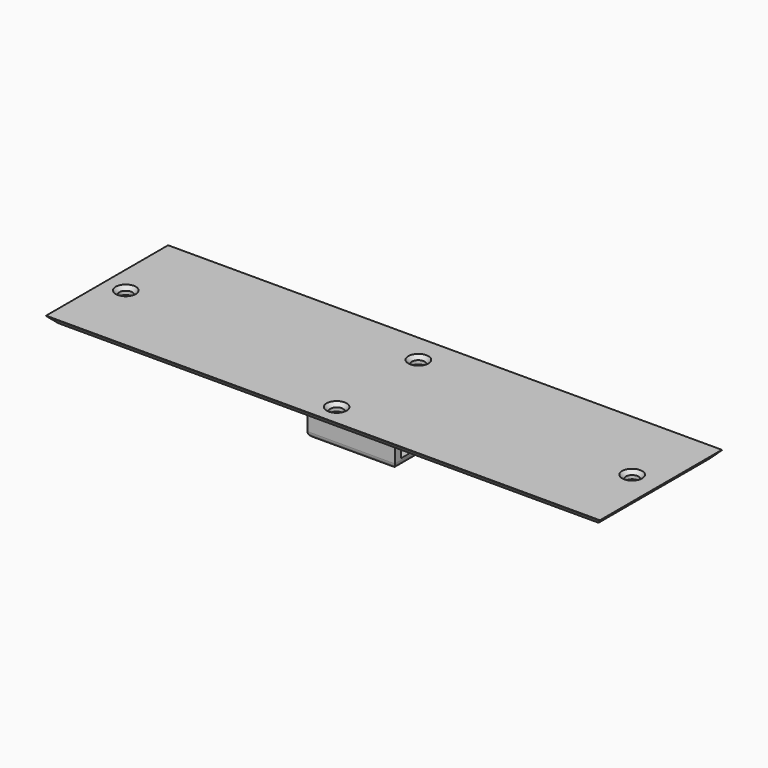
from build123d import *

# Parameters (mm, degrees)
SKETCH_W           = 151.8
SKETCH_H           = 41.8
PAD_DEPTH          = 2
CHAMFER_SIZE       = 1.9
SKETCH001_W        = 2
SKETCH001_H        = 2
PAD001_DEPTH       = 8.6
SKETCH002_W        = 15.5
SKETCH002_H        = 2
POCKET_DEPTH       = 2
SKETCH003_W        = 24
SKETCH003_H        = 19.5
PAD002_DEPTH       = 2
PAD003_START       = -0.75
SKETCH004_W        = 8
SKETCH004_H        = 0.6
PAD003_DEPTH       = 0.5
CHAMFER001_1_ANGLE = 53
CHAMFER001_1_SIZE  = 0.55
CHAMFER001_2_ANGLE = 53
CHAMFER001_2_SIZE  = 0.55
FILLET_R           = 1
FILLET001_R        = 1
SKETCH005_R        = 1.75
POCKET001_DEPTH    = 3
CHAMFER002_SIZE    = 1
SKETCH006_W        = 15.5
SKETCH006_H        = 8.6
POCKET002_DEPTH    = 5
SKETCH007_W        = 20
SKETCH007_H        = 15.5
POCKET003_DEPTH    = 5
SKETCH008_W        = 26
SKETCH008_H        = 21.5
POCKET004_DEPTH    = 10.6
SKETCH009_W        = 24
SKETCH009_H        = 19.5
SKETCH009_W_2      = 20
SKETCH009_H_2      = 15.5
PAD004_DEPTH       = 10.6
SKETCH010_W        = 15.5
SKETCH010_H        = 8.6
POCKET005_DEPTH    = 5
SKETCH011_W        = 15.5
SKETCH011_H        = 2
POCKET006_DEPTH    = 5
FILLET002_R        = 1.5


with BuildPart() as part:
    # Sketch → Pad (new body)
    with BuildSketch(Plane.XY):
        Rectangle(SKETCH_W, SKETCH_H)
    extrude(amount=PAD_DEPTH)

    # Chamfer
    chamfer_edges = [part.edges().sort_by_distance(p)[0] for p in [
        (0, -20.9, 0),
        (-75.9, 0, 0),
        (0, 20.9, 0),
        (75.9, 0, 0),
    ]]
    chamfer(chamfer_edges, length=CHAMFER_SIZE)

    # Sketch001 (on Face8 of Chamfer) → Pad001 (join)
    with BuildSketch(Plane(origin=(0, 0, 0), x_dir=(1, 0, 0), z_dir=(0, 0, -1))):
        Polygon((-11, 7.75), (-9, 7.75), (-9, 9.75), (-13, 9.75), (-13, -9.75), (-9, -9.75), (-9, -7.75), (-11, -7.75), align=None)
        with Locations((10, 8.75)):
            Rectangle(SKETCH001_W, SKETCH001_H)
        with Locations((10, -8.75)):
            Rectangle(SKETCH001_W, SKETCH001_H)
    extrude(amount=PAD001_DEPTH)

    # Sketch002 (on Face19 of Pad001) → Pocket (cut)
    with BuildSketch(Plane(origin=(-13, 0, 0), x_dir=(0, -1, 0), z_dir=(-1, 0, 0))):
        with Locations((0, -1)):
            Rectangle(SKETCH002_W, SKETCH002_H)
    extrude(amount=-POCKET_DEPTH, mode=Mode.SUBTRACT)

    # Sketch003 (on Face31 of Pocket) → Pad002 (join)
    with BuildSketch(Plane(origin=(0, 0, -8.6), x_dir=(1, 0, 0), z_dir=(0, 0, -1))):
        with Locations((-1, 0)):
            Rectangle(SKETCH003_W, SKETCH003_H)
        Polygon((-11, 7.75), (-1.5, 0), (-11, -7.75), align=None, mode=Mode.SUBTRACT)
        Polygon((9, 7.75), (1.5, 0), (9, -7.75), align=None, mode=Mode.SUBTRACT)
        Polygon((7, -7.75), (0, -1.5), (-9, -7.75), align=None, mode=Mode.SUBTRACT)
        Polygon((-9, 7.75), (0, 1.5), (7, 7.75), align=None, mode=Mode.SUBTRACT)
    extrude(amount=PAD002_DEPTH)

    # Sketch004 (on Face34 of Pad002) → Pad003 (join)
    with BuildSketch(Plane.YZ.offset(11).offset(PAD003_START)):
        with Locations((0, -8.3)):
            Rectangle(SKETCH004_W, SKETCH004_H)
    extrude(amount=-PAD003_DEPTH)

    # Chamfer001 1
    chamfer001_1_edges = [part.edges().sort_by_distance(p)[0] for p in [
        (10.25, 0, -8.6),
    ]]
    chamfer001_1_side = part.faces().sort_by_distance((10.25, 0, -8.3))[0]
    chamfer(chamfer001_1_edges, length=CHAMFER001_1_SIZE, angle=CHAMFER001_1_ANGLE, reference=chamfer001_1_side)

    # Chamfer001 2
    chamfer001_2_edges = [part.edges().sort_by_distance(p)[0] for p in [
        (9.75, 0, -8.6),
    ]]
    chamfer001_2_side = part.faces().sort_by_distance((9.75, 0, -8.3))[0]
    chamfer(chamfer001_2_edges, length=CHAMFER001_2_SIZE, angle=CHAMFER001_2_ANGLE, reference=chamfer001_2_side)

    # Fillet
    fillet_edges = [part.edges().sort_by_distance(p)[0] for p in [
        (10, -9.75, 0),
        (11, -8.75, 0),
        (9, -8.75, 0),
        (9, 8.75, 0),
        (10, 9.75, 0),
        (11, 8.75, 0),
        (-11, -9.75, 0),
        (-9, -8.75, 0),
        (-13, -8.75, 0),
        (-13, 8.75, 0),
        (-11, 9.75, 0),
        (-9, 8.75, 0),
        (11, -9.75, -5.3),
        (11, 9.75, -5.3),
        (-13, 9.75, -5.3),
        (-13, -9.75, -5.3),
    ]]
    fillet(fillet_edges, radius=FILLET_R)

    # Fillet001
    fillet001_edges = [part.edges().sort_by_distance(p)[0] for p in [
        (10.707107, -9.457107, -10.6),
    ]]
    fillet(fillet001_edges, radius=FILLET001_R)

    # Sketch005 (on Face73 of Fillet001) → Pocket001 (cut)
    with BuildSketch(Plane.XY.offset(2)):
        with Locations((-69.9, -1.1)):
            Circle(SKETCH005_R)
        with Locations((68.1, -0.1)):
            Circle(SKETCH005_R)
        with Locations((-0.9, -15.1)):
            Circle(SKETCH005_R)
        with Locations((-0.9, 12.9)):
            Circle(SKETCH005_R)
    extrude(amount=-POCKET001_DEPTH, mode=Mode.SUBTRACT)

    # Chamfer002
    chamfer002_edges = [part.edges().sort_by_distance(p)[0] for p in [
        (-2.65, 12.9, 2),
        (-71.65, -1.1, 2),
        (-2.65, -15.1, 2),
        (66.35, -0.1, 2),
    ]]
    chamfer(chamfer002_edges, length=CHAMFER002_SIZE)

    # Sketch006 (on Face46 of Chamfer002) → Pocket002 (cut)
    with BuildSketch(Plane.YZ.offset(11)):
        with Locations((0, -4.3)):
            Rectangle(SKETCH006_W, SKETCH006_H)
    extrude(amount=-POCKET002_DEPTH, mode=Mode.SUBTRACT)

    # Sketch007 (on Face59 of Pocket002) → Pocket003 (cut)
    with BuildSketch(Plane(origin=(0, 0, -10.6), x_dir=(1, 0, 0), z_dir=(0, 0, -1))):
        with Locations((-1, 0)):
            Rectangle(SKETCH007_W, SKETCH007_H)
    extrude(amount=-POCKET003_DEPTH, mode=Mode.SUBTRACT)

    # Sketch008 (on Face58 of Pocket003) → Pocket004 (cut)
    with BuildSketch(Plane(origin=(0, 0, -10.6), x_dir=(1, 0, 0), z_dir=(0, 0, -1))):
        with Locations((-1, 0)):
            Rectangle(SKETCH008_W, SKETCH008_H)
    extrude(amount=-POCKET004_DEPTH, mode=Mode.SUBTRACT)

    # Sketch009 (on Face18 of Pocket004) → Pad004 (join)
    with BuildSketch(Plane(origin=(0, 0, 0), x_dir=(1, 0, 0), z_dir=(0, 0, -1))):
        with Locations((0, 1.5)):
            Rectangle(SKETCH009_W, SKETCH009_H)
        with Locations((0, 1.5)):
            Rectangle(SKETCH009_W_2, SKETCH009_H_2, mode=Mode.SUBTRACT)
    extrude(amount=PAD004_DEPTH)

    # Sketch010 (on Face11 of Pad004) → Pocket005 (cut)
    with BuildSketch(Plane.YZ.offset(12)):
        with Locations((-1.5, -4.3)):
            Rectangle(SKETCH010_W, SKETCH010_H)
    extrude(amount=-POCKET005_DEPTH, mode=Mode.SUBTRACT)

    # Sketch011 (on Face31 of Pocket005) → Pocket006 (cut)
    with BuildSketch(Plane.YZ.offset(-10)):
        with Locations((-1.5, -1)):
            Rectangle(SKETCH011_W, SKETCH011_H)
    extrude(amount=-POCKET006_DEPTH, mode=Mode.SUBTRACT)

    # Fillet002
    fillet002_edges = [part.edges().sort_by_distance(p)[0] for p in [
        (12, -10.25, 0),
        (0, -11.25, 0),
        (-12, -10.25, 0),
        (0, 8.25, 0),
        (12, 7.25, 0),
        (12, -1.5, -10.6),
        (0, 8.25, -10.6),
        (-12, -1.5, -10.6),
        (0, -11.25, -10.6),
        (-12, 7.25, 0),
    ]]
    fillet(fillet002_edges, radius=FILLET002_R)


solid = part.part
